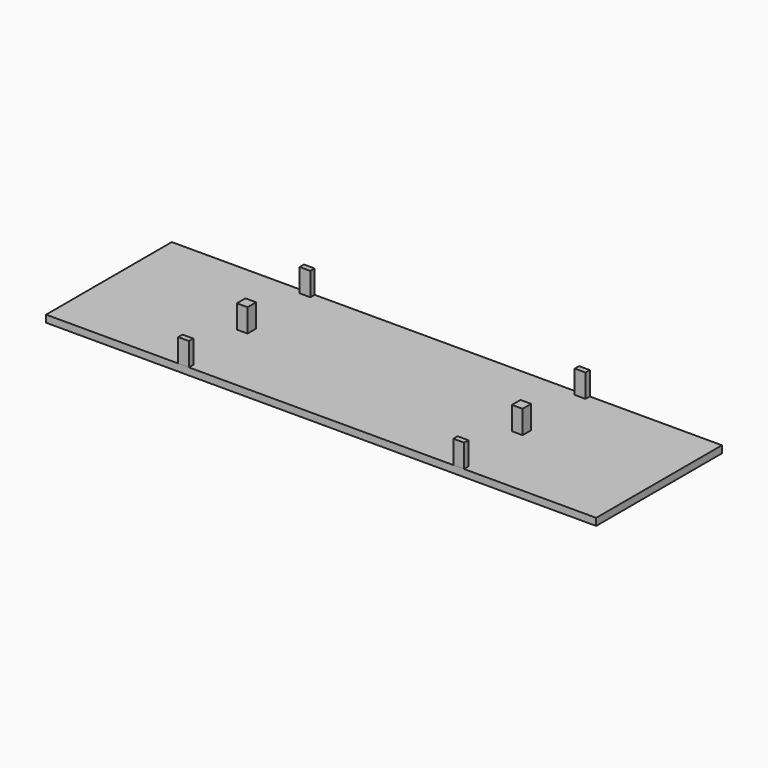
from build123d import *

# Parameters (mm, degrees)
F0_W          = 3
F0_H          = 3
F0_H_2        = 1.5
F1_DEPTH      = 1.5
F1_DEPTH_BACK = 5
F2_W          = 154
F2_H          = 44
F3_DEPTH      = 2


with BuildPart() as f1:
    # F0 (on Top) → F1 (new body, two sides)
    with BuildSketch(Plane.XY) as f1_sk:
        with Locations((-38.5, 0)):
            Rectangle(F0_W, F0_H)
        with Locations((-38.5, -21.25)):
            Rectangle(F0_W, F0_H_2)
        with Locations((38.5, 21.25)):
            Rectangle(F0_W, F0_H_2)
        with Locations((-38.5, 21.25)):
            Rectangle(F0_W, F0_H_2)
        with Locations((38.5, 0)):
            Rectangle(F0_W, F0_H)
        with Locations((38.5, -21.25)):
            Rectangle(F0_W, F0_H_2)
    extrude(amount=F1_DEPTH)
    extrude(f1_sk.sketch, amount=-F1_DEPTH_BACK)


with BuildPart() as f3:
    # F2 (on face) → F3 (new body)
    with BuildSketch(Plane(origin=(0, 0, -5), x_dir=(1, 0, 0), z_dir=(0, 0, -1))):
        Rectangle(F2_W, F2_H)
        Rectangle(F2_W, F2_H)
    extrude(amount=F3_DEPTH)


solid = Compound([f1.part, f3.part])
